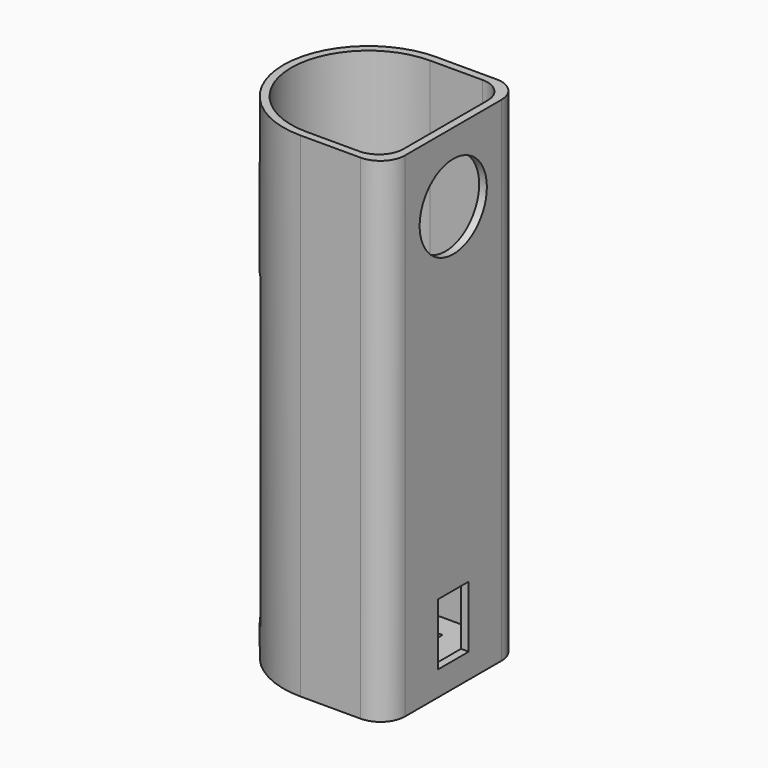
from build123d import *

# Parameters (mm, degrees)
F1_DEPTH  = 101.6
F3_DEPTH  = 100.0125
F4_R      = 5.08
F5_R      = 5.08
F6_R      = 8.636
F7_DEPTH  = 25.4
F9_DEPTH  = 25.4
F10_W     = 25.4
F10_H     = 63.5
F11_DEPTH = 25.4
F13_DEPTH = 0.79375


with BuildPart() as f1:
    # F0 (on Top) → F1 (new body)
    with BuildSketch(Plane.XY):
        with BuildLine():
            ThreePointArc((0, -17.4625), (12.347852, -12.347852), (17.4625, 0))
            ThreePointArc((17.4625, 0), (12.347852, 12.347852), (0, 17.4625))
            ThreePointArc((0, 17.4625), (-17.4625, 0), (0, -17.4625))
        make_face()
        with BuildLine():
            Line((17.4625, -17.4625), (17.4625, 0))
            ThreePointArc((17.4625, 0), (12.347852, -12.347852), (0, -17.4625))
            Line((0, -17.4625), (17.4625, -17.4625))
        make_face()
        with BuildLine():
            ThreePointArc((0, 17.4625), (12.347852, 12.347852), (17.4625, 0))
            Line((17.4625, 0), (17.4625, 17.4625))
            Line((17.4625, 17.4625), (0, 17.4625))
        make_face()
    extrude(amount=F1_DEPTH)

    # F2 (on face) → F3 (cut)
    with BuildSketch(Plane.XY.offset(101.6)):
        with BuildLine():
            ThreePointArc((0, -15.875), (11.22532, -11.22532), (15.875, 0))
            ThreePointArc((15.875, 0), (11.22532, 11.22532), (0, 15.875))
            ThreePointArc((0, 15.875), (-15.875, 0), (0, -15.875))
        make_face()
        with BuildLine():
            Line((15.875, -15.875), (15.875, 0))
            ThreePointArc((15.875, 0), (11.22532, -11.22532), (0, -15.875))
            Line((0, -15.875), (15.875, -15.875))
        make_face()
        with BuildLine():
            ThreePointArc((0, 15.875), (11.22532, 11.22532), (15.875, 0))
            Line((15.875, 0), (15.875, 15.875))
            Line((15.875, 15.875), (0, 15.875))
        make_face()
    extrude(amount=-F3_DEPTH, mode=Mode.SUBTRACT)

    # F4
    f4_edges = [f1.edges().sort_by_distance(p)[0] for p in [
        (17.4625, -17.4625, 50.8),
        (17.4625, 17.4625, 50.8),
    ]]
    fillet(f4_edges, radius=F4_R)

    # F5
    f5_edges = [f1.edges().sort_by_distance(p)[0] for p in [
        (15.875, 15.875, 51.59375),
        (15.875, -15.875, 51.59375),
    ]]
    fillet(f5_edges, radius=F5_R)

    # F6 (on face) → F7 (cut)
    with BuildSketch(Plane.YZ.offset(17.4625)):
        with Locations((0, 87.3125)):
            Circle(F6_R)
    extrude(amount=-F7_DEPTH, mode=Mode.SUBTRACT)

    # F8 (on face) → F9 (cut)
    with BuildSketch(Plane.YZ.offset(17.4625)):
        Polygon((-3.96875, 5.08), (0, 5.08), (3.96875, 5.08), (3.96875, 17.78), (-3.96875, 17.78), align=None)
    extrude(amount=-F9_DEPTH, mode=Mode.SUBTRACT)

    # F10 (on Right) → F11 (cut)
    with BuildSketch(Plane.YZ):
        with Locations((0, 38.1)):
            Rectangle(F10_W, F10_H)
    extrude(amount=-F11_DEPTH, mode=Mode.SUBTRACT)

    # F12 (on face) → F13 (cut)
    with BuildSketch(Plane.XY.offset(1.5875)):
        with BuildLine():
            Line((6.35, 11.1125), (-4.7625, 11.1125))
            ThreePointArc((-4.7625, 11.1125), (-15.875, 0), (-4.7625, -11.1125))
            Line((-4.7625, -11.1125), (6.35, -11.1125))
            Line((6.35, -11.1125), (6.35, 11.1125))
        make_face()
    extrude(amount=-F13_DEPTH, mode=Mode.SUBTRACT)


solid = f1.part
